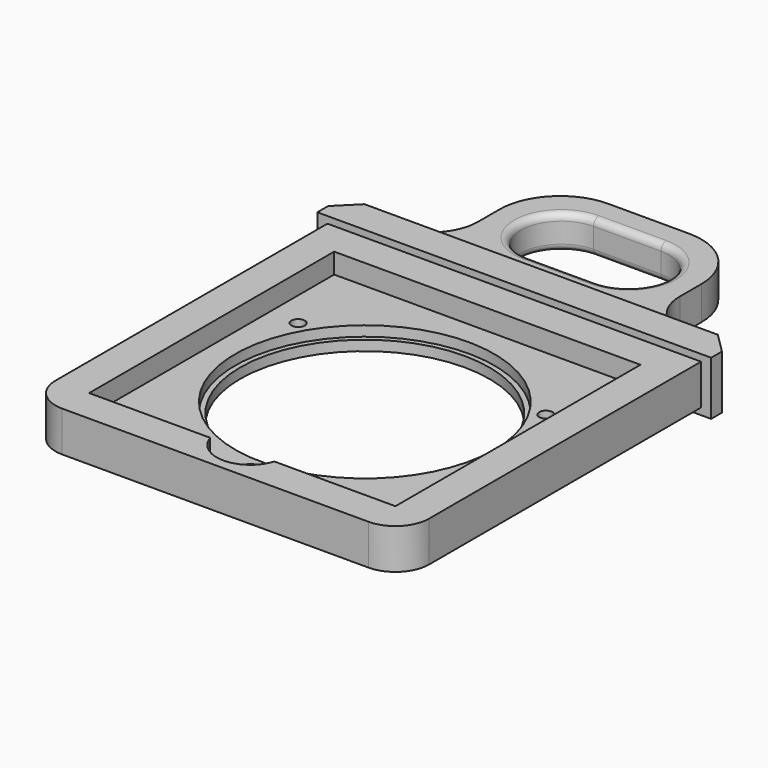
from build123d import *

# Parameters (mm, degrees)
SKETCH_W        = 55.5
SKETCH_H        = 55.5
SKETCH_R        = 19.25
PAD_DEPTH       = 6
SKETCH001_W     = 58.5
SKETCH001_H     = 8
PAD001_DEPTH    = 5
SKETCH002_W     = 30
SKETCH002_H     = 5
PAD002_DEPTH    = 20
FILLET_R        = 5
POCKET_DEPTH    = 6
FILLET001_R     = 9
FILLET002_R     = 7
CHAMFER_SIZE    = 3
SKETCH004_R     = 19.25
SKETCH004_R_2   = 18.5
PAD003_DEPTH    = 1.5
SKETCH005_W     = 45.5
SKETCH005_H     = 45.5
POCKET001_DEPTH = 3
SKETCH006_R     = 1
POCKET002_DEPTH = 6
FILLET003_R     = 1
FILLET004_R     = 1
SKETCH007_R     = 5
POCKET003_DEPTH = 2.999


with BuildPart() as part:
    # Sketch → Pad (new body)
    with BuildSketch(Plane.XY):
        Rectangle(SKETCH_W, SKETCH_H)
        Circle(SKETCH_R, mode=Mode.SUBTRACT)
    extrude(amount=PAD_DEPTH)

    # Sketch001 → Pad001 (new body)
    with BuildSketch(Plane(origin=(0, 27.75, 0), x_dir=(-1, 0, 0), z_dir=(0, 1, 0))):
        with Locations((0, 3)):
            Rectangle(SKETCH001_W, SKETCH001_H)
    extrude(amount=PAD001_DEPTH)

    # Sketch002 → Pad002 (new body)
    with BuildSketch(Plane(origin=(0, 32.75, 0), x_dir=(-1, 0, 0), z_dir=(0, 1, 0))):
        with Locations((0, 3)):
            Rectangle(SKETCH002_W, SKETCH002_H)
    extrude(amount=PAD002_DEPTH)

    # Fillet
    fillet_edges = [part.edges().sort_by_distance(p)[0] for p in [
        (-27.75, -27.75, 3),
        (27.75, -27.75, 3),
    ]]
    fillet(fillet_edges, radius=FILLET_R)

    # Sketch003 → Pocket (cut)
    with BuildSketch(Plane(origin=(0, 0, 0.5), x_dir=(1, 0, 0), z_dir=(0, 0, -1))):
        with BuildLine():
            ThreePointArc((-5, -36.75), (-11, -42.75), (-5, -48.75))
            Line((-5, -48.75), (5, -48.75))
            ThreePointArc((5, -48.75), (11, -42.75), (5, -36.75))
            Line((-5, -36.75), (5, -36.75))
        make_face()
    extrude(amount=-POCKET_DEPTH, mode=Mode.SUBTRACT)

    # Fillet001
    fillet001_edges = [part.edges().sort_by_distance(p)[0] for p in [
        (15, 52.75, 3),
        (-15, 52.75, 3),
    ]]
    fillet(fillet001_edges, radius=FILLET001_R)

    # Fillet002
    fillet002_edges = [part.edges().sort_by_distance(p)[0] for p in [
        (15, 32.75, 3),
        (-15, 32.75, 3),
    ]]
    fillet(fillet002_edges, radius=FILLET002_R)

    # Chamfer
    chamfer_edges = [part.edges().sort_by_distance(p)[0] for p in [
        (-29.25, 32.75, 3),
        (29.25, 32.75, 3),
    ]]
    chamfer(chamfer_edges, length=CHAMFER_SIZE)

    # Sketch004 → Pad003 (new body)
    with BuildSketch(Plane(origin=(0, 0, 0), x_dir=(1, 0, 0), z_dir=(0, 0, -1))):
        Circle(SKETCH004_R)
        Circle(SKETCH004_R_2, mode=Mode.SUBTRACT)
    extrude(amount=-PAD003_DEPTH)

    # Sketch005 → Pocket001 (cut)
    with BuildSketch(Plane.XY.offset(6)):
        Rectangle(SKETCH005_W, SKETCH005_H)
    extrude(amount=-POCKET001_DEPTH, mode=Mode.SUBTRACT)

    # Sketch006 → Pocket002 (cut)
    with BuildSketch(Plane.XY.offset(3)):
        with Locations((-18.40304, 10.625)):
            Circle(SKETCH006_R)
        with Locations((18.40304, 10.625)):
            Circle(SKETCH006_R)
        with Locations((0, -21.25)):
            Circle(SKETCH006_R)
    extrude(amount=-POCKET002_DEPTH, mode=Mode.SUBTRACT)

    # Fillet003
    fillet003_edges = [part.edges().sort_by_distance(p)[0] for p in [
        (0, 48.75, 5.5),
    ]]
    fillet(fillet003_edges, radius=FILLET003_R)

    # Fillet004
    fillet004_edges = [part.edges().sort_by_distance(p)[0] for p in [
        (0, 36.75, 0.5),
    ]]
    fillet(fillet004_edges, radius=FILLET004_R)

    # Sketch007 → Pocket003 (cut)
    with BuildSketch(Plane.XY.offset(6)):
        with Locations((0, -21.25)):
            Circle(SKETCH007_R)
    extrude(amount=-POCKET003_DEPTH, mode=Mode.SUBTRACT)


solid = part.part
